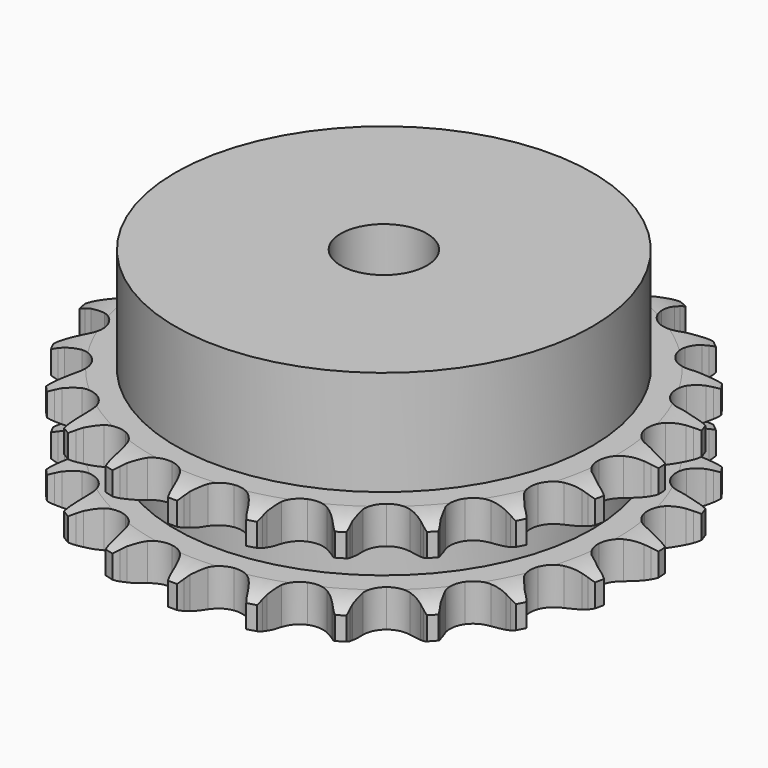
from build123d import *

# Parameters (mm, degrees)
PAD_DEPTH         = 15.4
SKETCH001_R       = 29
PAD001_DEPTH      = 30
SKETCH002_R       = 6
POCKET_DEPTH      = 0.001
POCKET_DEPTH_BACK = 30.001


with BuildPart() as part:
    # Sprocket → Pad (new body)
    with BuildSketch(Plane.XY):
        with BuildLine():
            ThreePointArc((-5.149362, 37.464391), (-4.478189, 36.650296), (-3.985073, 35.717526))
            Line((-3.985073, 35.717526), (-3.677222, 34.957231))
            ThreePointArc((-3.677222, 34.957231), (-3.184, 33.943046), (-2.557984, 33.004993))
            ThreePointArc((-2.557984, 33.004993), (-1.425392, 32.078192), (0, 31.74655))
            ThreePointArc((0, 31.74655), (1.425392, 32.078192), (2.557984, 33.004993))
            ThreePointArc((2.557984, 33.004993), (3.184, 33.943046), (3.677222, 34.957231))
            Line((3.677222, 34.957231), (3.985073, 35.717526))
            ThreePointArc((3.985073, 35.717526), (4.478189, 36.650296), (5.149362, 37.464391))
            ThreePointArc((5.149362, 37.464391), (5.576006, 36.499405), (5.799178, 35.468183))
            Line((5.799178, 35.468183), (5.890487, 34.653025))
            ThreePointArc((5.890487, 34.653025), (6.091796, 33.543379), (6.441513, 32.471214))
            ThreePointArc((6.441513, 32.471214), (7.282058, 31.273211), (8.565117, 30.569302))
            ThreePointArc((8.565117, 30.569302), (10.027127, 30.504079), (11.367768, 31.090942))
            Line((11.367768, 31.090942), (12.972209, 32.668819))
            ThreePointArc((12.972209, 32.668819), (13.214975, 32.999534), (13.473769, 33.317864))
            ThreePointArc((13.473769, 33.317864), (14.200257, 34.083003), (15.066182, 34.685829))
            ThreePointArc((15.066182, 34.685829), (15.216654, 33.64152), (15.15333, 32.588327))
            Line((15.15333, 32.588327), (15.021326, 31.778762))
            ThreePointArc((15.021326, 31.778762), (14.915791, 30.655953), (14.963273, 29.529194))
            ThreePointArc((14.963273, 29.529194), (15.449431, 28.14884), (16.494998, 27.124868))
            ThreePointArc((16.494998, 27.124868), (17.885196, 26.667619), (19.334456, 26.871019))
            Line((19.334456, 26.871019), (21.305106, 27.957511))
            ThreePointArc((21.305106, 27.957511), (21.628096, 28.210465), (21.963177, 28.447167))
            ThreePointArc((21.963177, 28.447167), (22.869157, 28.987929), (23.865611, 29.334777))
            ThreePointArc((23.865611, 29.334777), (23.728753, 28.288597), (23.383629, 27.291544))
            Line((23.383629, 27.291544), (23.038102, 26.547614))
            ThreePointArc((23.038102, 26.547614), (22.63355, 25.494914), (22.375276, 24.397129))
            ThreePointArc((22.375276, 24.397129), (22.470991, 22.936798), (23.20152, 21.668707))
            ThreePointArc((23.20152, 21.668707), (24.416802, 20.853343), (25.867196, 20.658195))
            Line((25.867196, 20.658195), (28.057901, 21.172722))
            ThreePointArc((28.057901, 21.172722), (28.437159, 21.329154), (28.823677, 21.466675))
            ThreePointArc((28.823677, 21.466675), (29.841957, 21.742954), (30.895038, 21.808099))
            ThreePointArc((30.895038, 21.808099), (30.480998, 20.837638), (29.879671, 19.970672))
            Line((29.879671, 19.970672), (29.346247, 19.347551))
            ThreePointArc((29.346247, 19.347551), (28.672682, 18.443035), (28.127806, 17.45564))
            ThreePointArc((28.127806, 17.45564), (27.825979, 16.023639), (28.187292, 14.605478))
            ThreePointArc((28.187292, 14.605478), (29.137525, 13.49247), (30.481485, 12.913247))
            Line((30.481485, 12.913247), (32.72977, 12.817648))
            ThreePointArc((32.72977, 12.817648), (33.137169, 12.865957), (33.546456, 12.894098))
            ThreePointArc((33.546456, 12.894098), (34.601515, 12.885402), (35.633121, 12.664014))
            ThreePointArc((35.633121, 12.664014), (34.972608, 11.841247), (34.159674, 11.168667))
            Line((34.159674, 11.168667), (33.477916, 10.712569))
            ThreePointArc((33.477916, 10.712569), (32.585293, 10.02332), (31.794226, 9.219546))
            ThreePointArc((31.794226, 9.219546), (31.117243, 7.922079), (31.082542, 6.459026))
            ThreePointArc((31.082542, 6.459026), (31.697252, 5.130923), (32.835101, 4.210582))
            Line((32.835101, 4.210582), (34.974222, 3.511949))
            ThreePointArc((34.974222, 3.511949), (35.379547, 3.448551), (35.781248, 3.365224))
            ThreePointArc((35.781248, 3.365224), (36.794837, 3.0722), (37.728458, 2.580697))
            ThreePointArc((37.728458, 2.580697), (36.870459, 1.966645), (35.906211, 1.538333))
            Line((35.906211, 1.538333), (35.12668, 1.283084))
            ThreePointArc((35.12668, 1.283084), (34.081201, 0.860222), (33.102614, 0.299681))
            ThreePointArc((33.102614, 0.299681), (32.100682, -0.767025), (31.672541, -2.166461))
            ThreePointArc((31.672541, -2.166461), (31.906138, -3.611162), (32.753488, -4.804362))
            Line((32.753488, -4.804362), (34.624795, -6.054216))
            ThreePointArc((34.624795, -6.054216), (34.997985, -6.224618), (35.362309, -6.413233))
            ThreePointArc((35.362309, -6.413233), (36.259254, -6.968854), (37.025648, -7.694018))
            ThreePointArc((37.025648, -7.694018), (36.033796, -8.053815), (34.989749, -8.206093))
            Line((34.989749, -8.206093), (34.170259, -8.241561))
            ThreePointArc((34.170259, -8.241561), (33.049463, -8.366676), (31.955932, -8.64241))
            ThreePointArc((31.955932, -8.64241), (30.703361, -9.399242), (29.913533, -10.631272))
            ThreePointArc((29.913533, -10.631272), (29.748692, -12.085423), (30.242698, -13.462988))
            Line((30.242698, -13.462988), (31.707406, -15.171367))
            ThreePointArc((31.707406, -15.171367), (32.020783, -15.436136), (32.320709, -15.71605))
            ThreePointArc((32.320709, -15.71605), (33.034488, -16.493059), (33.576816, -17.398104))
            ThreePointArc((33.576816, -17.398104), (32.524672, -17.476959), (31.478257, -17.34191))
            Line((31.478257, -17.34191), (30.679587, -17.154967))
            ThreePointArc((30.679587, -17.154967), (29.566597, -16.973055), (28.439225, -16.943534))
            ThreePointArc((28.439225, -16.943534), (27.028912, -17.33436), (25.935975, -18.307611))
            ThreePointArc((25.935975, -18.307611), (25.384922, -19.663364), (25.488946, -21.123126))
            Line((25.488946, -21.123126), (26.438423, -23.163327))
            ThreePointArc((26.438423, -23.163327), (26.668746, -23.502826), (26.88203, -23.853279))
            ThreePointArc((26.88203, -23.853279), (27.359705, -24.79405), (27.637744, -25.811851))
            ThreePointArc((27.637744, -25.811851), (26.603342, -25.603918), (25.632166, -25.191557))
            Line((25.632166, -25.191557), (24.91355, -24.796068))
            ThreePointArc((24.91355, -24.796068), (23.890912, -24.32062), (22.813311, -23.988033))
            ThreePointArc((22.813311, -23.988033), (21.349852, -23.983868), (20.034865, -24.626157))
            ThreePointArc((20.034865, -24.626157), (19.138468, -25.782963), (18.844796, -27.216659))
            Line((18.844796, -27.216659), (19.208624, -29.437369))
            ThreePointArc((19.208624, -29.437369), (19.33881, -29.826419), (19.449634, -30.22142))
            ThreePointArc((19.449634, -30.22142), (19.655779, -31.25618), (19.648907, -32.311252))
            ThreePointArc((19.648907, -32.311252), (18.708964, -31.831951), (17.885055, -31.172861))
            Line((17.885055, -31.172861), (17.299789, -30.598158))
            ThreePointArc((17.299789, -30.598158), (16.443347, -29.864437), (15.495437, -29.253449))
            ThreePointArc((15.495437, -29.253449), (14.087372, -28.854602), (12.64786, -29.118294))
            ThreePointArc((12.64786, -29.118294), (11.472601, -29.990357), (10.803013, -31.291656))
            Line((10.803013, -31.291656), (10.554209, -33.528177))
            ThreePointArc((10.554209, -33.528177), (10.574603, -33.937923), (10.574747, -34.348176))
            ThreePointArc((10.574747, -34.348176), (10.494073, -35.400181), (10.202801, -36.414275))
            ThreePointArc((10.202801, -36.414275), (9.427027, -35.699154), (8.811492, -34.842217))
            Line((8.811492, -34.842217), (8.402982, -34.130922))
            ThreePointArc((8.402982, -34.130922), (7.776255, -33.193344), (7.028339, -32.349271))
            ThreePointArc((7.028339, -32.349271), (5.780095, -31.585323), (4.322821, -31.450861))
            ThreePointArc((4.322821, -31.450861), (2.955865, -31.973504), (1.96002, -33.045895))
            Line((1.96002, -33.045895), (1.117036, -35.132352))
            ThreePointArc((1.117036, -35.132352), (1.026126, -35.532406), (0.91558, -35.927485))
            ThreePointArc((0.91558, -35.927485), (0.554069, -36.918714), (0, -37.816617))
            ThreePointArc((0, -37.816617), (-0.554069, -36.918714), (-0.91558, -35.927485))
            Line((-0.91558, -35.927485), (-1.117036, -35.132352))
            ThreePointArc((-1.117036, -35.132352), (-1.467567, -34.060454), (-1.96002, -33.045895))
            ThreePointArc((-1.96002, -33.045895), (-2.955865, -31.973504), (-4.322821, -31.450861))
            ThreePointArc((-4.322821, -31.450861), (-5.780095, -31.585323), (-7.028339, -32.349271))
            Line((-7.028339, -32.349271), (-8.402982, -34.130922))
            ThreePointArc((-8.402982, -34.130922), (-8.598454, -34.491614), (-8.811492, -34.842217))
            ThreePointArc((-8.811492, -34.842217), (-9.427027, -35.699154), (-10.202801, -36.414275))
            ThreePointArc((-10.202801, -36.414275), (-10.494073, -35.400181), (-10.574747, -34.348176))
            Line((-10.574747, -34.348176), (-10.554209, -33.528177))
            ThreePointArc((-10.554209, -33.528177), (-10.602546, -32.401455), (-10.803013, -31.291656))
            ThreePointArc((-10.803013, -31.291656), (-11.472601, -29.990357), (-12.64786, -29.118294))
            ThreePointArc((-12.64786, -29.118294), (-14.087372, -28.854602), (-15.495437, -29.253449))
            Line((-15.495437, -29.253449), (-17.299789, -30.598158))
            ThreePointArc((-17.299789, -30.598158), (-17.585326, -30.892736), (-17.885055, -31.172861))
            ThreePointArc((-17.885055, -31.172861), (-18.708964, -31.831951), (-19.648907, -32.311252))
            ThreePointArc((-19.648907, -32.311252), (-19.655779, -31.25618), (-19.449634, -30.22142))
            Line((-19.449634, -30.22142), (-19.208624, -29.437369))
            ThreePointArc((-19.208624, -29.437369), (-18.951183, -28.339388), (-18.844796, -27.216659))
            ThreePointArc((-18.844796, -27.216659), (-19.138468, -25.782963), (-20.034865, -24.626157))
            ThreePointArc((-20.034865, -24.626157), (-21.349852, -23.983868), (-22.813311, -23.988033))
            Line((-22.813311, -23.988033), (-24.91355, -24.796068))
            ThreePointArc((-24.91355, -24.796068), (-25.267975, -25.002686), (-25.632166, -25.191557))
            ThreePointArc((-25.632166, -25.191557), (-26.603342, -25.603918), (-27.637744, -25.811851))
            ThreePointArc((-27.637744, -25.811851), (-27.359705, -24.79405), (-26.88203, -23.853279))
            Line((-26.88203, -23.853279), (-26.438423, -23.163327))
            ThreePointArc((-26.438423, -23.163327), (-25.894297, -22.175519), (-25.488946, -21.123126))
            ThreePointArc((-25.488946, -21.123126), (-25.384922, -19.663364), (-25.935975, -18.307611))
            ThreePointArc((-25.935975, -18.307611), (-27.028912, -17.33436), (-28.439225, -16.943534))
            Line((-28.439225, -16.943534), (-30.679587, -17.154967))
            ThreePointArc((-30.679587, -17.154967), (-31.076614, -17.2583), (-31.478257, -17.34191))
            ThreePointArc((-31.478257, -17.34191), (-32.524672, -17.476959), (-33.576816, -17.398104))
            ThreePointArc((-33.576816, -17.398104), (-33.034488, -16.493059), (-32.320709, -15.71605))
            Line((-32.320709, -15.71605), (-31.707406, -15.171367))
            ThreePointArc((-31.707406, -15.171367), (-30.91695, -14.366993), (-30.242698, -13.462988))
            ThreePointArc((-30.242698, -13.462988), (-29.748692, -12.085423), (-29.913533, -10.631272))
            ThreePointArc((-29.913533, -10.631272), (-30.703361, -9.399242), (-31.955932, -8.64241))
            Line((-31.955932, -8.64241), (-34.170259, -8.241561))
            ThreePointArc((-34.170259, -8.241561), (-34.580442, -8.233946), (-34.989749, -8.206093))
            ThreePointArc((-34.989749, -8.206093), (-36.033796, -8.053815), (-37.025648, -7.694018))
            ThreePointArc((-37.025648, -7.694018), (-36.259254, -6.968854), (-35.362309, -6.413233))
            Line((-35.362309, -6.413233), (-34.624795, -6.054216))
            ThreePointArc((-34.624795, -6.054216), (-33.646633, -5.492932), (-32.753488, -4.804362))
            ThreePointArc((-32.753488, -4.804362), (-31.906138, -3.611162), (-31.672541, -2.166461))
            ThreePointArc((-31.672541, -2.166461), (-32.100682, -0.767025), (-33.102614, 0.299681))
            Line((-33.102614, 0.299681), (-35.12668, 1.283084))
            ThreePointArc((-35.12668, 1.283084), (-35.519597, 1.401083), (-35.906211, 1.538333))
            ThreePointArc((-35.906211, 1.538333), (-36.870459, 1.966645), (-37.728458, 2.580697))
            ThreePointArc((-37.728458, 2.580697), (-36.794837, 3.0722), (-35.781248, 3.365224))
            Line((-35.781248, 3.365224), (-34.974222, 3.511949))
            ThreePointArc((-34.974222, 3.511949), (-33.8809, 3.788513), (-32.835101, 4.210582))
            ThreePointArc((-32.835101, 4.210582), (-31.697252, 5.130923), (-31.082542, 6.459026))
            ThreePointArc((-31.082542, 6.459026), (-31.117243, 7.922079), (-31.794226, 9.219546))
            Line((-31.794226, 9.219546), (-33.477916, 10.712569))
            ThreePointArc((-33.477916, 10.712569), (-33.824427, 10.9322), (-34.159674, 11.168667))
            ThreePointArc((-34.159674, 11.168667), (-34.972608, 11.841247), (-35.633121, 12.664014))
            ThreePointArc((-35.633121, 12.664014), (-34.601515, 12.885402), (-33.546456, 12.894098))
            Line((-33.546456, 12.894098), (-32.72977, 12.817648))
            ThreePointArc((-32.72977, 12.817648), (-31.602376, 12.788983), (-30.481485, 12.913247))
            ThreePointArc((-30.481485, 12.913247), (-29.137525, 13.49247), (-28.187292, 14.605478))
            ThreePointArc((-28.187292, 14.605478), (-27.825979, 16.023639), (-28.127806, 17.45564))
            Line((-28.127806, 17.45564), (-29.346247, 19.347551))
            ThreePointArc((-29.346247, 19.347551), (-29.620653, 19.652525), (-29.879671, 19.970672))
            ThreePointArc((-29.879671, 19.970672), (-30.480998, 20.837638), (-30.895038, 21.808099))
            ThreePointArc((-30.895038, 21.808099), (-29.841957, 21.742954), (-28.823677, 21.466675))
            Line((-28.823677, 21.466675), (-28.057901, 21.172722))
            ThreePointArc((-28.057901, 21.172722), (-26.980048, 20.840951), (-25.867196, 20.658195))
            ThreePointArc((-25.867196, 20.658195), (-24.416802, 20.853343), (-23.20152, 21.668707))
            ThreePointArc((-23.20152, 21.668707), (-22.470991, 22.936798), (-22.375276, 24.397129))
            Line((-22.375276, 24.397129), (-23.038102, 26.547614))
            ThreePointArc((-23.038102, 26.547614), (-23.220051, 26.915313), (-23.383629, 27.291544))
            ThreePointArc((-23.383629, 27.291544), (-23.728753, 28.288597), (-23.865611, 29.334777))
            ThreePointArc((-23.865611, 29.334777), (-22.869157, 28.987929), (-21.963177, 28.447167))
            Line((-21.963177, 28.447167), (-21.305106, 27.957511))
            ThreePointArc((-21.305106, 27.957511), (-20.356733, 27.347242), (-19.334456, 26.871019))
            ThreePointArc((-19.334456, 26.871019), (-17.885196, 26.667619), (-16.494998, 27.124868))
            ThreePointArc((-16.494998, 27.124868), (-15.449431, 28.14884), (-14.963273, 29.529194))
            Line((-14.963273, 29.529194), (-15.021326, 31.778762))
            ThreePointArc((-15.021326, 31.778762), (-15.097324, 32.181915), (-15.15333, 32.588327))
            ThreePointArc((-15.15333, 32.588327), (-15.216654, 33.64152), (-15.066182, 34.685829))
            ThreePointArc((-15.066182, 34.685829), (-14.200257, 34.083003), (-13.473769, 33.317864))
            Line((-13.473769, 33.317864), (-12.972209, 32.668819))
            ThreePointArc((-12.972209, 32.668819), (-12.223653, 31.825313), (-11.367768, 31.090942))
            ThreePointArc((-11.367768, 31.090942), (-10.027127, 30.504079), (-8.565117, 30.569302))
            ThreePointArc((-8.565117, 30.569302), (-7.282058, 31.273211), (-6.441513, 32.471214))
            Line((-6.441513, 32.471214), (-5.890487, 34.653025))
            ThreePointArc((-5.890487, 34.653025), (-5.854897, 35.061731), (-5.799178, 35.468183))
            ThreePointArc((-5.799178, 35.468183), (-5.576006, 36.499405), (-5.149362, 37.464391))
        make_face()
    extrude(amount=PAD_DEPTH)

    # Sketch → Groove (revolve, cut)
    with BuildSketch(Plane.XZ):
        with BuildLine():
            ThreePointArc((32.391101, 0), (34.627169, 0.253206), (36.75, 1))
            Line((36.75, 1), (36.75, 4.2))
            ThreePointArc((36.75, 4.2), (34.627169, 4.946794), (32.391101, 5.2))
            Line((29, 5.2), (32.391101, 5.2))
            Line((29, 10.2), (29, 5.2))
            Line((32.391101, 10.2), (29, 10.2))
            ThreePointArc((32.391101, 10.2), (34.627169, 10.453206), (36.75, 11.2))
            Line((36.75, 11.2), (36.75, 14.4))
            ThreePointArc((36.75, 14.4), (34.627169, 15.146794), (32.391101, 15.4))
            Line((32.391101, 15.4), (42.391101, 15.4))
            Line((42.391101, 15.4), (42.391101, 0))
            Line((32.391101, 0), (42.391101, 0))
        make_face()
    revolve(axis=Axis((0, 0, 0), (0, 0, 1)), mode=Mode.SUBTRACT)

    # Sketch001 → Pad001 (join)
    with BuildSketch(Plane.XY):
        Circle(SKETCH001_R)
    extrude(amount=PAD001_DEPTH)

    # Sketch002 → Pocket (cut, two sides)
    with BuildSketch(Plane.XY) as pocket_sk:
        Circle(SKETCH002_R)
    extrude(amount=-POCKET_DEPTH, mode=Mode.SUBTRACT)
    extrude(pocket_sk.sketch, amount=POCKET_DEPTH_BACK, mode=Mode.SUBTRACT)


solid = part.part
